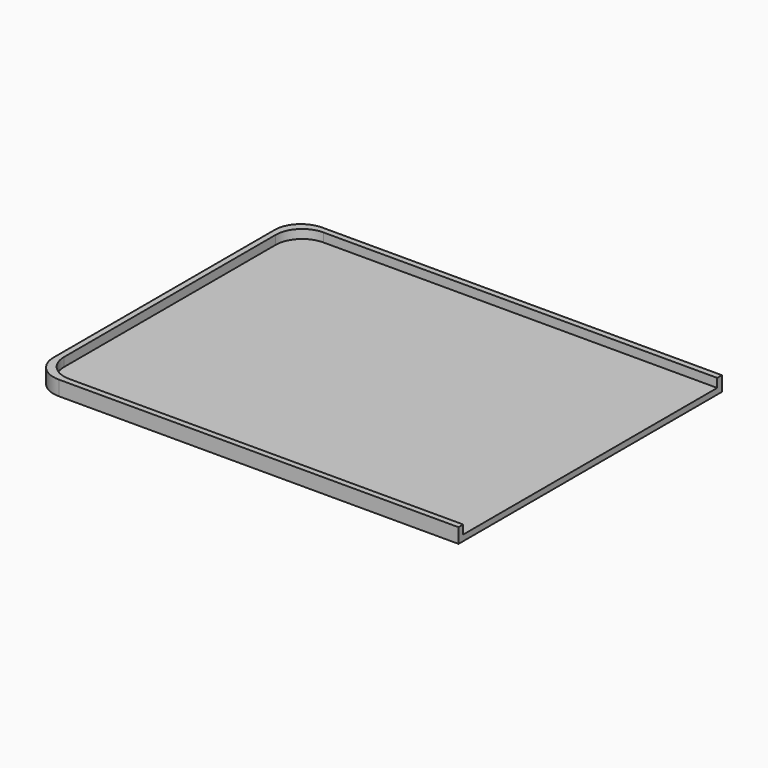
from build123d import *

# Parameters (mm, degrees)
F1_DEPTH = 5
F3_DEPTH = 3


with BuildPart() as f1:
    # F0 (on Top) → F1 (new body)
    with BuildSketch(Plane.XY):
        with BuildLine():
            ThreePointArc((-95, -47), (-92.363961, -53.363961), (-86, -56))
            Line((-86, -56), (50, -56))
            Line((50, -56), (50, 56))
            Line((50, 56), (-86, 56))
            ThreePointArc((-86, 56), (-92.363961, 53.363961), (-95, 47))
            Line((-95, 47), (-95, -47))
        make_face()
    extrude(amount=F1_DEPTH)

    # F2 (on face) → F3 (cut)
    with BuildSketch(Plane.XY.offset(5)):
        with BuildLine():
            Line((50, -54), (50, 54))
            Line((50, 54), (-84, 54))
            ThreePointArc((-84, 54), (-90.363961, 51.363961), (-93, 45))
            Line((-93, 45), (-93, -45))
            ThreePointArc((-93, -45), (-90.363961, -51.363961), (-84, -54))
            Line((-84, -54), (50, -54))
        make_face()
    extrude(amount=-F3_DEPTH, mode=Mode.SUBTRACT)


solid = f1.part
